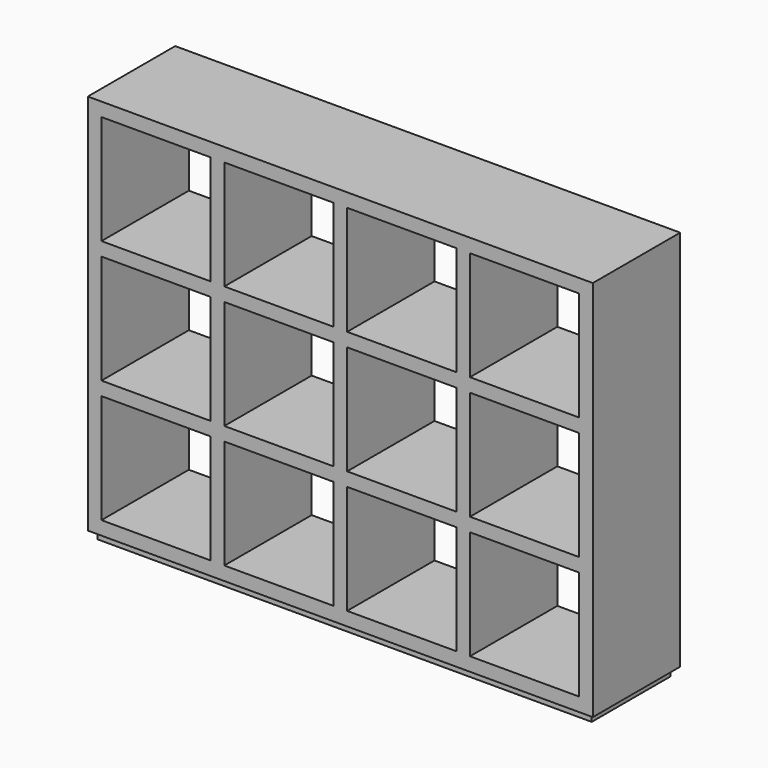
from build123d import *

# Parameters (mm, degrees)
F0_W     = 1850
F0_H     = 1400
F0_W_2   = 400
F0_H_2   = 400
F1_DEPTH = 400
F2_W     = 1810
F2_H     = 360
F3_DEPTH = 30


with BuildPart() as f1:
    # F0 (on Front) → F1 (new body)
    with BuildSketch(Plane.XZ):
        with Locations((925, 700)):
            Rectangle(F0_W, F0_H)
        with Locations((250, 250)):
            Rectangle(F0_W_2, F0_H_2, mode=Mode.SUBTRACT)
        with Locations((700, 250)):
            Rectangle(F0_W_2, F0_H_2, mode=Mode.SUBTRACT)
        with Locations((1150, 250)):
            Rectangle(F0_W_2, F0_H_2, mode=Mode.SUBTRACT)
        with Locations((1600, 250)):
            Rectangle(F0_W_2, F0_H_2, mode=Mode.SUBTRACT)
        with Locations((250, 700)):
            Rectangle(F0_W_2, F0_H_2, mode=Mode.SUBTRACT)
        with Locations((700, 700)):
            Rectangle(F0_W_2, F0_H_2, mode=Mode.SUBTRACT)
        with Locations((250, 1150)):
            Rectangle(F0_W_2, F0_H_2, mode=Mode.SUBTRACT)
        with Locations((700, 1150)):
            Rectangle(F0_W_2, F0_H_2, mode=Mode.SUBTRACT)
        with Locations((1150, 700)):
            Rectangle(F0_W_2, F0_H_2, mode=Mode.SUBTRACT)
        with Locations((1600, 700)):
            Rectangle(F0_W_2, F0_H_2, mode=Mode.SUBTRACT)
        with Locations((1150, 1150)):
            Rectangle(F0_W_2, F0_H_2, mode=Mode.SUBTRACT)
        with Locations((1600, 1150)):
            Rectangle(F0_W_2, F0_H_2, mode=Mode.SUBTRACT)
    extrude(amount=F1_DEPTH)

    # F2 (on face) → F3 (join)
    with BuildSketch(Plane(origin=(0, 0, 0), x_dir=(1, 0, 0), z_dir=(0, 0, -1))):
        with Locations((925, 200)):
            Rectangle(F2_W, F2_H)
    extrude(amount=F3_DEPTH)


solid = f1.part
